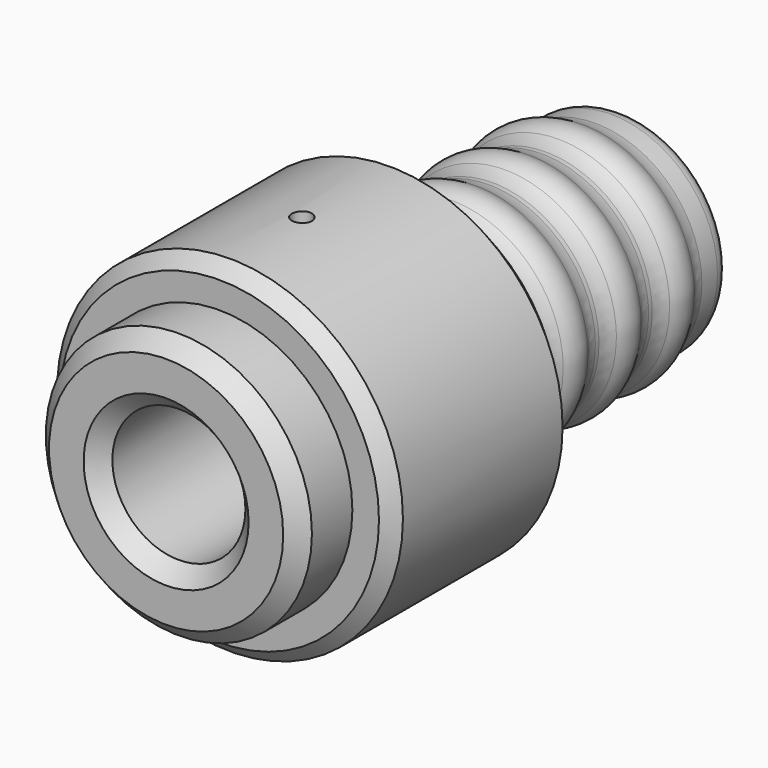
from build123d import *

# Parameters (mm, degrees)
CHAMFER001_SIZE     = 1.2
CHAMFER002_SIZE     = 1
CHAMFER003_SIZE     = 2
FILLET010_R         = 1.2
SKETCH030_R         = 0.75
POCKET007_DEPTH     = 3
POLARPATTERN_COUNT  = 2
POLARPATTERN_ANGLE  = 180
LINEARPATTERN_COUNT = 3
LINEARPATTERN_PITCH = 5
FILLET011_R         = 2


with BuildPart() as part:
    # Sketch027 → Revolution (revolve)
    with BuildSketch(Plane.XY):
        Polygon((5, 43), (5, 0), (10, 0), (10, 5), (13, 5), (13, 23), (8, 23), (8, 43), align=None)
    revolve(axis=Axis((0, 0, 0), (0, 1, 0)))

    # Chamfer001
    chamfer001_edges = [part.edges().sort_by_distance(p)[0] for p in [
        (-5, 0, 0),
        (-10, 0, 0),
    ]]
    chamfer(chamfer001_edges, length=CHAMFER001_SIZE)

    # Chamfer002
    chamfer002_edges = [part.edges().sort_by_distance(p)[0] for p in [
        (-13, 5, 0),
    ]]
    chamfer(chamfer002_edges, length=CHAMFER002_SIZE)

    # Chamfer003
    chamfer003_edges = [part.edges().sort_by_distance(p)[0] for p in [
        (-13, 23, 0),
    ]]
    chamfer(chamfer003_edges, length=CHAMFER003_SIZE)

    # Fillet010
    fillet010_edges = [part.edges().sort_by_distance(p)[0] for p in [
        (-8, 43, 0),
        (-5, 43, 0),
    ]]
    fillet(fillet010_edges, radius=FILLET010_R)

    # Sketch030 (on DatumPlane) → Pocket007 (cut)
    with BuildSketch(Plane.XY.offset(13)):
        with Locations((0, 12.75)):
            Circle(SKETCH030_R)
    pocket007 = extrude(amount=-POCKET007_DEPTH, mode=Mode.SUBTRACT)

    # PolarPattern: Pocket007 ×2 about axis
    polarpattern_axis = Axis((0, 0, 0), (0, 1, 0))
    for i in range(1, POLARPATTERN_COUNT):
        add(pocket007.rotate(polarpattern_axis, i * POLARPATTERN_ANGLE / (POLARPATTERN_COUNT - 1)), mode=Mode.SUBTRACT)

    # Sketch031 → Revolution001 (revolve)
    with BuildSketch(Plane.XY):
        with BuildLine():
            ThreePointArc((7.75, 36.267949), (8.75, 38), (7.75, 39.732051))
            Line((7.75, 39.732051), (7.75, 36.267949))
        make_face()
    revolution001 = revolve(axis=Axis((0, 0, 0), (0, 1, 0)))

    # LinearPattern: Revolution001 ×3
    with Locations(*[(0, -i * LINEARPATTERN_PITCH, 0) for i in range(1, LINEARPATTERN_COUNT)]):
        add(revolution001)

    # Fillet011
    fillet011_edges = [part.edges().sort_by_distance(p)[0] for p in [
        (-8, 34.561249, 0),
        (8, 35.5, 0),
        (-8, 36.438751, 0),
        (-8, 29.561249, 0),
        (8, 30.5, 0),
        (-8, 31.438751, 0),
        (-8, 39.561249, 0),
        (8, 40.680625, 0),
        (-8, 41.8, 0),
        (-8, 26.438751, 0),
    ]]
    fillet(fillet011_edges, radius=FILLET011_R)


with BuildPart() as part_1:
    # Body006 placement: moved
    add(part.part.moved(Location((0, 50.25, 0))))


solid = part_1.part
